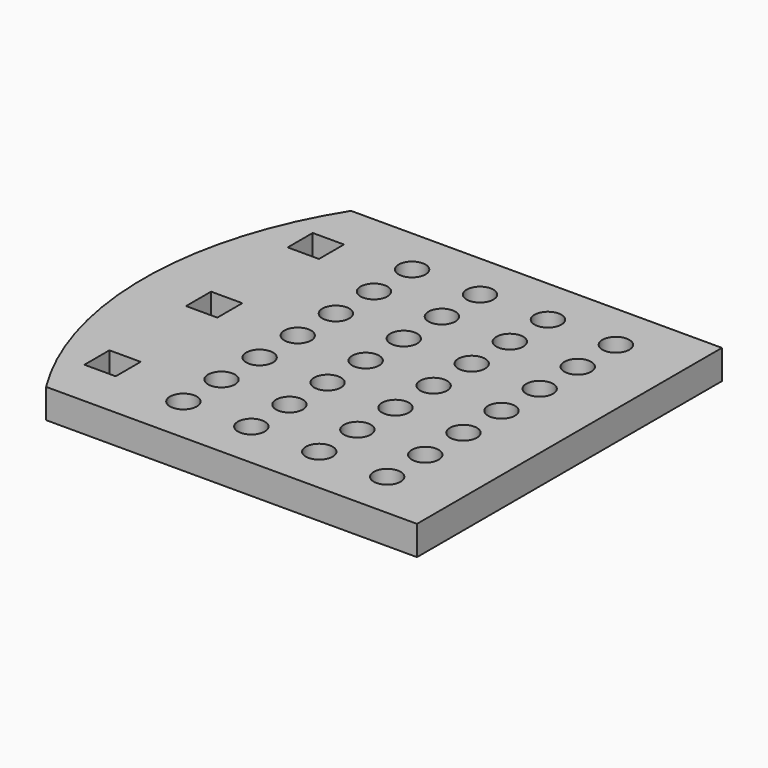
from build123d import *

# Parameters (mm, degrees)
F0_R     = 1.375
F1_DEPTH = 1.5


with BuildPart() as f1:
    # F0 (on Top) → F1 (new body, symmetric)
    with BuildSketch(Plane.XY):
        with BuildLine():
            Line((-31, -19.5), (-27.8, -19.5))
            Line((-27.8, -19.5), (0, -19.5))
            Line((0, -19.5), (6.95, -19.5))
            Line((6.95, -19.5), (6.95, 19.5))
            Line((6.95, 19.5), (0, 19.5))
            Line((0, 19.5), (-27.8, 19.5))
            Line((-27.8, 19.5), (-31, 19.5))
            ThreePointArc((-31, 19.5), (-36.62308, 0), (-31, -19.5))
        make_face()
        Polygon((-31, -11.4), (-29.4, -11.4), (-27.8, -11.4), (-27.8, -14.6), (-31, -14.6), align=None, mode=Mode.SUBTRACT)
        with Locations((-20.85, -14.625)):
            Circle(F0_R, mode=Mode.SUBTRACT)
        with Locations((-20.85, -9.75)):
            Circle(F0_R, mode=Mode.SUBTRACT)
        with Locations((-20.85, -4.875)):
            Circle(F0_R, mode=Mode.SUBTRACT)
        with Locations((-13.9, -14.625)):
            Circle(F0_R, mode=Mode.SUBTRACT)
        with Locations((-6.95, -14.625)):
            Circle(F0_R, mode=Mode.SUBTRACT)
        with Locations((0, -14.625)):
            Circle(F0_R, mode=Mode.SUBTRACT)
        with Locations((-13.9, -9.75)):
            Circle(F0_R, mode=Mode.SUBTRACT)
        with Locations((-6.95, -9.75)):
            Circle(F0_R, mode=Mode.SUBTRACT)
        with Locations((-13.9, -4.875)):
            Circle(F0_R, mode=Mode.SUBTRACT)
        with Locations((-6.95, -4.875)):
            Circle(F0_R, mode=Mode.SUBTRACT)
        with Locations((0, -9.75)):
            Circle(F0_R, mode=Mode.SUBTRACT)
        with Locations((0, -4.875)):
            Circle(F0_R, mode=Mode.SUBTRACT)
        Polygon((-31, 1.6), (-29.4, 1.6), (-27.8, 1.6), (-27.8, -1.6), (-31, -1.6), align=None, mode=Mode.SUBTRACT)
        with Locations((-20.85, 0)):
            Circle(F0_R, mode=Mode.SUBTRACT)
        with Locations((-20.85, 4.875)):
            Circle(F0_R, mode=Mode.SUBTRACT)
        Polygon((-27.8, 14.6), (-27.8, 11.4), (-29.4, 11.4), (-31, 11.4), (-31, 14.6), align=None, mode=Mode.SUBTRACT)
        with Locations((-20.85, 9.75)):
            Circle(F0_R, mode=Mode.SUBTRACT)
        with Locations((-20.85, 14.625)):
            Circle(F0_R, mode=Mode.SUBTRACT)
        with Locations((-13.9, 0)):
            Circle(F0_R, mode=Mode.SUBTRACT)
        with Locations((-6.95, 0)):
            Circle(F0_R, mode=Mode.SUBTRACT)
        with Locations((-13.9, 4.875)):
            Circle(F0_R, mode=Mode.SUBTRACT)
        with Locations((-6.95, 4.875)):
            Circle(F0_R, mode=Mode.SUBTRACT)
        Circle(F0_R, mode=Mode.SUBTRACT)
        with Locations((0, 4.875)):
            Circle(F0_R, mode=Mode.SUBTRACT)
        with Locations((-13.9, 9.75)):
            Circle(F0_R, mode=Mode.SUBTRACT)
        with Locations((-6.95, 9.75)):
            Circle(F0_R, mode=Mode.SUBTRACT)
        with Locations((-13.9, 14.625)):
            Circle(F0_R, mode=Mode.SUBTRACT)
        with Locations((-6.95, 14.625)):
            Circle(F0_R, mode=Mode.SUBTRACT)
        with Locations((0, 9.75)):
            Circle(F0_R, mode=Mode.SUBTRACT)
        with Locations((0, 14.625)):
            Circle(F0_R, mode=Mode.SUBTRACT)
    extrude(amount=F1_DEPTH, both=True)


solid = f1.part
